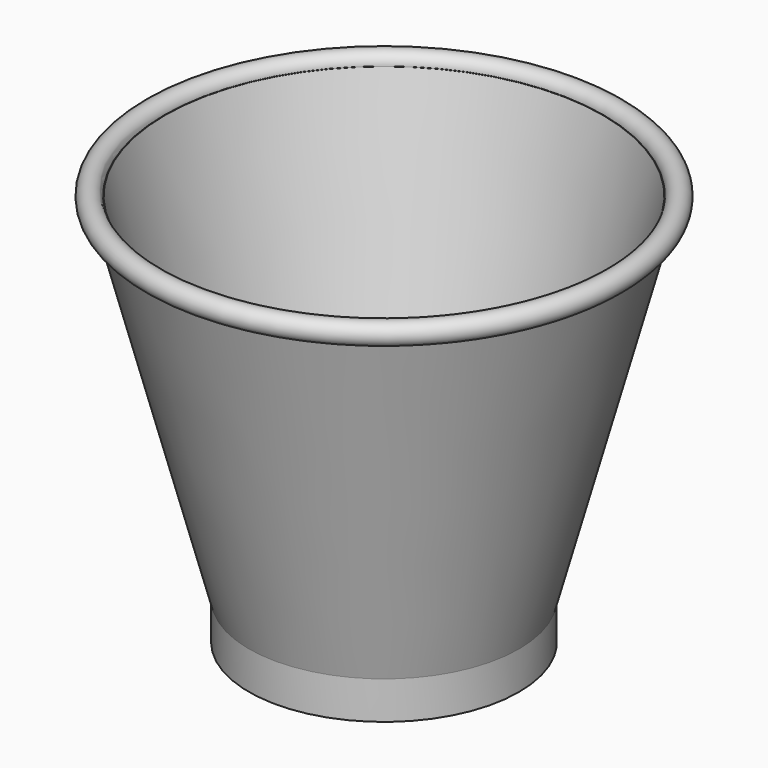
from build123d import *

# Parameters (mm, degrees)
F0_R     = 31.75
F0_R_2   = 25.4
F1_DEPTH = 6.35
F2_R     = 31.75
F3_DEPTH = 2.54


with BuildPart() as f1:
    # F0 (on Top) → F1 (new body)
    with BuildSketch(Plane.XY):
        Circle(F0_R)
        Circle(F0_R_2, mode=Mode.SUBTRACT)
    extrude(amount=F1_DEPTH)

    # F2 (on face) → F3 (join)
    with BuildSketch(Plane.XY.offset(6.35)):
        Circle(F2_R)
    extrude(amount=F3_DEPTH)

    # F4 (on Front) → F5 (revolve)
    with BuildSketch(Plane.XZ):
        with BuildLine():
            Line((-53.444212, 89.853903), (-31.75, 8.89))
            Line((-31.75, 8.89), (-29.120399, 8.89))
            Line((-29.120399, 8.89), (-51.472011, 92.307354))
            Line((-51.472011, 92.307354), (-51.561613, 92.307354))
            ThreePointArc((-51.561613, 92.307354), (-56.11673, 93.853608), (-53.444212, 89.853903))
        make_face()
    revolve(axis=Axis((0, 0, 53.792427), (0, 0, 1)))


solid = f1.part
